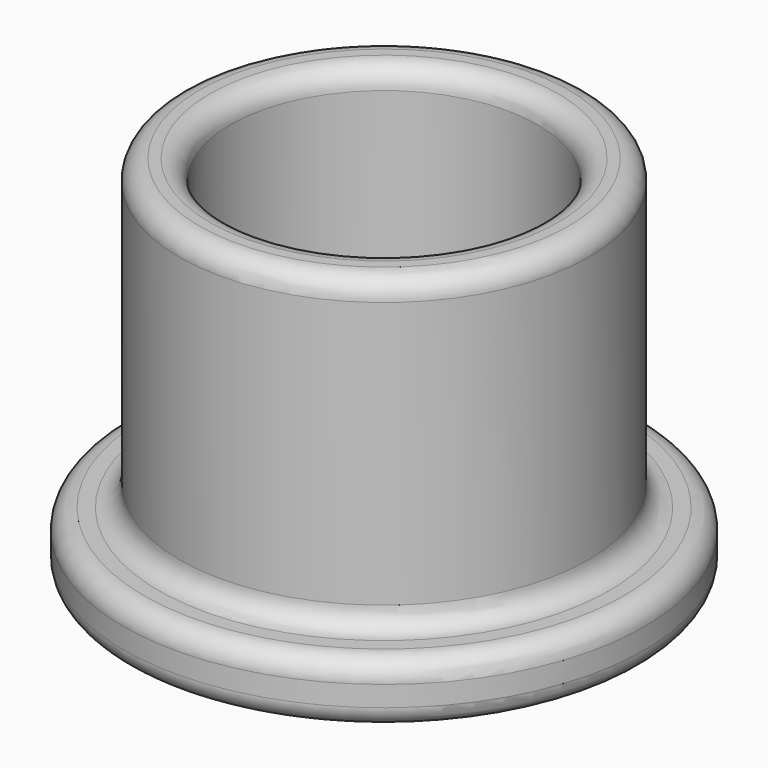
from build123d import *

# Parameters (mm, degrees)
F2_R = 1.27


with BuildPart() as f1:
    # F0 (on Front) → F1 (revolve)
    with BuildSketch(Plane.XZ):
        Polygon((-16.129, 3.81), (-16.129, 0), (-9.525, 0), (-9.525, 22.86), (-12.7, 22.86), (-12.7, 3.81), align=None)
    revolve(axis=Axis((0, 0, 13.309052), (0, 0, 1)))

    # F2
    f2_edges = [f1.edges().sort_by_distance(p)[0] for p in [
        (12.7, 0, 22.86),
        (9.525, 0, 22.86),
        (12.7, 0, 3.81),
        (16.129, 0, 3.81),
        (16.129, 0, 0),
        (9.525, 0, 0),
    ]]
    fillet(f2_edges, radius=F2_R)


solid = f1.part
